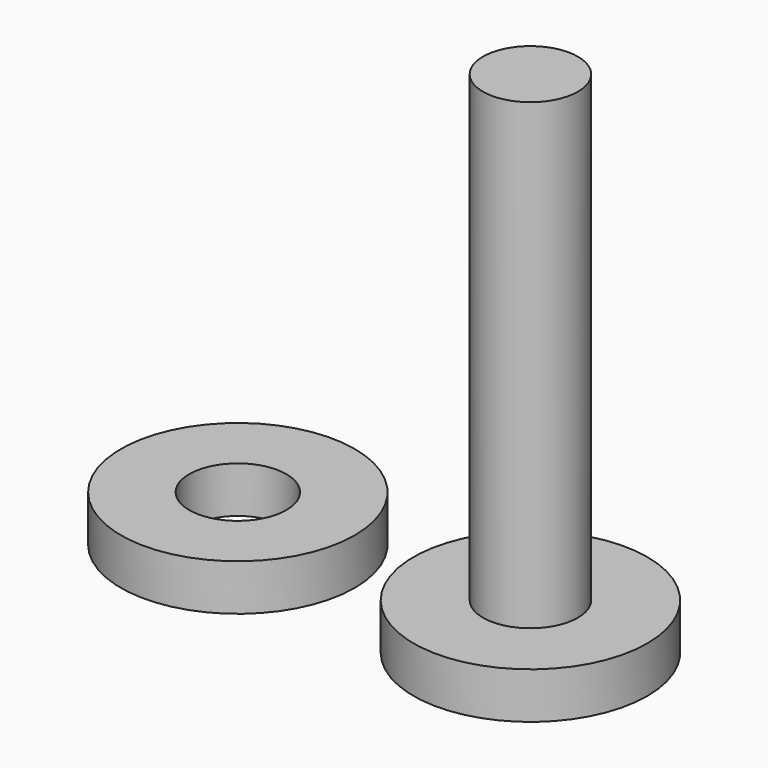
from build123d import *

# Parameters (mm, degrees)
F0_R     = 5.05
F0_R_2   = 2.05
F0_R_3   = 2.1
F1_DEPTH = 2
F2_DEPTH = 22


with BuildPart() as f1:
    # F0 (on Top) → F1 (new body)
    with BuildSketch(Plane.XY):
        Circle(F0_R)
        Circle(F0_R_2, mode=Mode.SUBTRACT)
        with Locations((-12.63685, 0)):
            Circle(F0_R)
        with Locations((-12.63685, 0)):
            Circle(F0_R_3, mode=Mode.SUBTRACT)
        Circle(F0_R_2)
    extrude(amount=F1_DEPTH)

    # F0 (on Top) → F2 (join)
    with BuildSketch(Plane.XY):
        Circle(F0_R_2)
    extrude(amount=F2_DEPTH)


solid = f1.part
